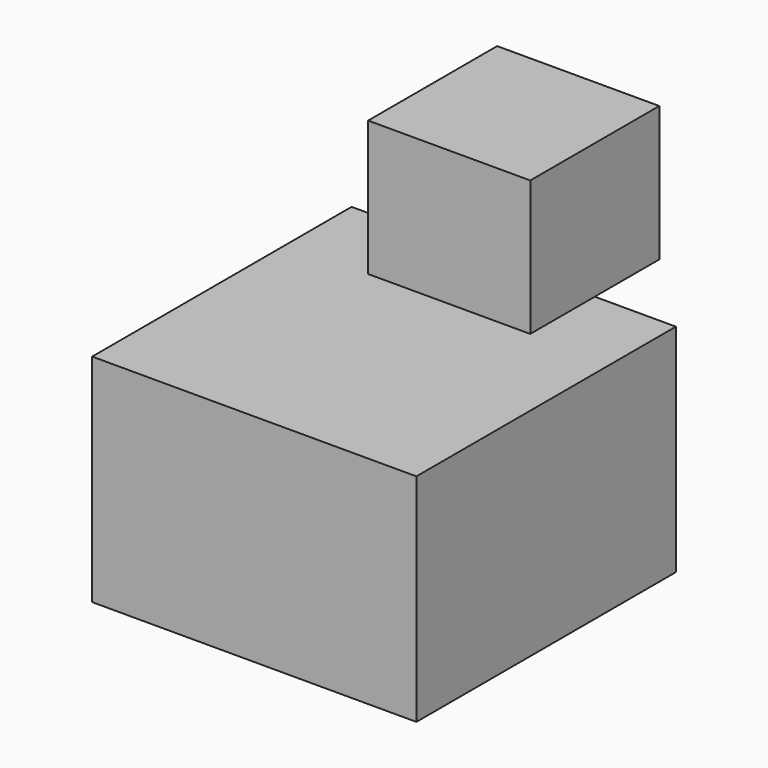
from build123d import *

# Parameters (mm, degrees)
F0_W     = 120
F0_H     = 80
F1_DEPTH = 120
F2_W     = 60
F2_H     = 59.687224
F3_DEPTH = 50


with BuildPart() as f1:
    # F0 (on Front) → F1 (new body)
    with BuildSketch(Plane.XZ):
        Rectangle(F0_W, F0_H)
    extrude(amount=F1_DEPTH)

    # F2 (on face) → F3 (join)
    with BuildSketch(Plane.XY.offset(40)):
        Rectangle(F2_W, F2_H)
    extrude(amount=F3_DEPTH)


solid = f1.part
